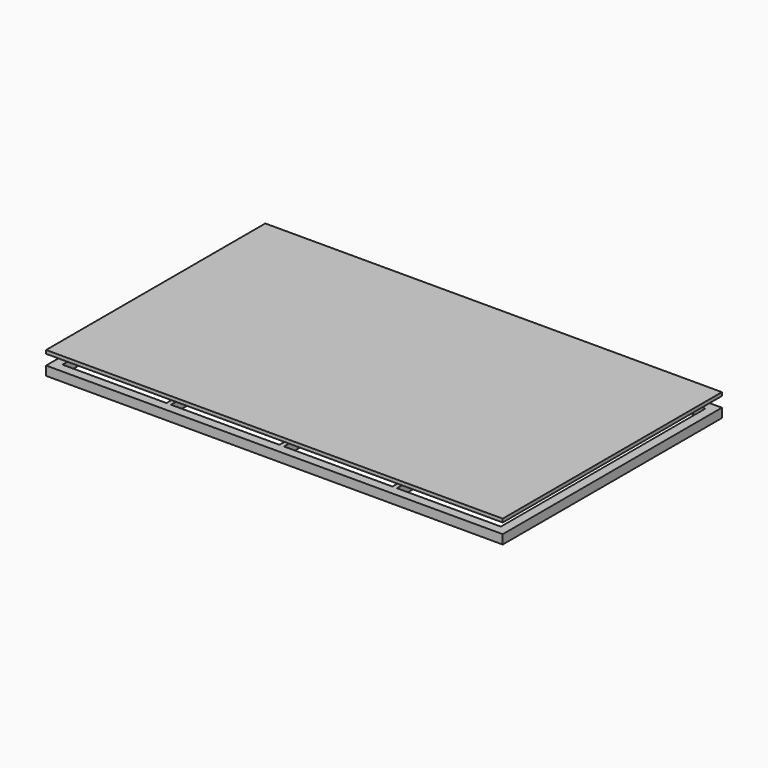
from build123d import *

# Parameters (mm, degrees)
F0_W     = 2000
F0_H     = 1200
F0_W_2   = 1920
F0_H_2   = 1120
F2_DEPTH = 40
F1_W     = 20
F1_H     = 1120
F3_DEPTH = 40
F5_W     = 2000
F5_H     = 1200
F6_DEPTH = 15


with BuildPart() as f2:
    # F0 (on Top) → F2 (new body)
    with BuildSketch(Plane.XY):
        Rectangle(F0_W, F0_H)
        Rectangle(F0_W_2, F0_H_2, mode=Mode.SUBTRACT)
    extrude(amount=F2_DEPTH)

    # F1 (on Top) → F3 (join)
    with BuildSketch(Plane.XY):
        Rectangle(F1_W, F1_H)
        with Locations((494.996164, -1.948804)):
            Rectangle(F1_W, F1_H)
        with Locations((-495, 0)):
            Rectangle(F1_W, F1_H)
    extrude(amount=F3_DEPTH)


with BuildPart() as f6:
    # F5 (on offset) → F6 (new body)
    with BuildSketch(Plane.XY.offset(100)):
        Rectangle(F5_W, F5_H)
    extrude(amount=-F6_DEPTH)


solid = Compound([f2.part, f6.part])
